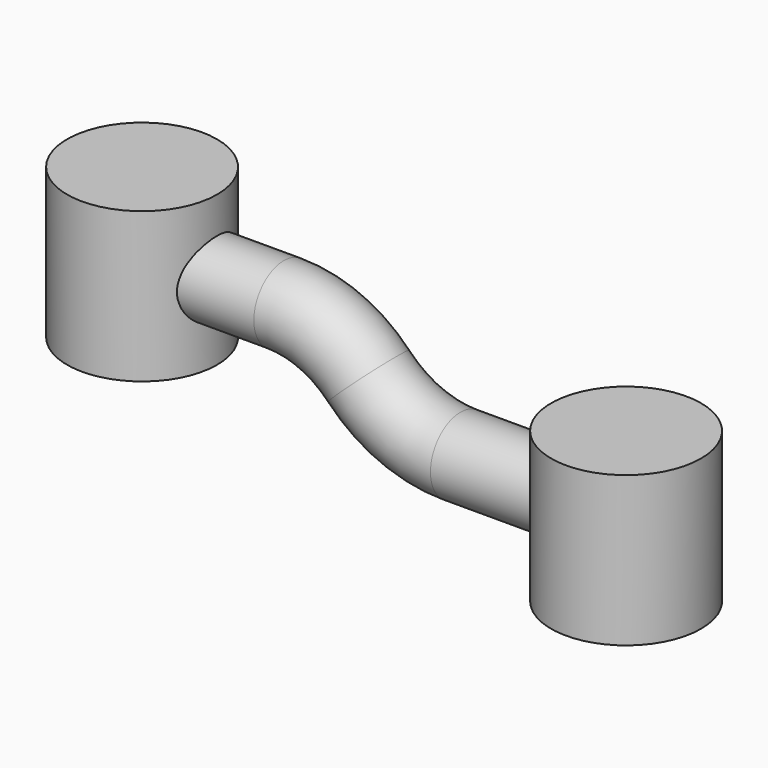
from build123d import *

# Parameters (mm, degrees)
F0_R     = 25.4
F1_DEPTH = 50.8
F2_DEPTH = 25.4
F4_R     = 12.7


with BuildPart() as f1:
    # F0 (on Top) → F1 (new body)
    with BuildSketch(Plane.XY):
        Circle(F0_R)
    extrude(amount=F1_DEPTH)


with BuildPart() as f2:
    # F0 (on Top) → F2 (new body, symmetric)
    with BuildSketch(Plane.XY):
        with Locations((164.0053569386, 0)):
            Circle(F0_R)
    extrude(amount=F2_DEPTH, both=True)


with BuildPart() as f5:
    # F5: sweep along a path in F3
    with BuildLine(Plane.XZ) as f5_path:
        Line((0, 25.7653268045), (48.0276979506, 25.7653268045))
        ThreePointArc((48.0276979506, 25.7653268045), (63.6812827633, 22.5387563608), (76.7830014229, 13.3850444099))
        ThreePointArc((76.7830014229, 13.3850444099), (90.9480326003, 3.4884332443), (107.8720349141, 0))
        Line((107.8720349141, 0), (164.0053569386, 0))
    # F4 (on Right) → F5 (sweep)
    with BuildSketch(Plane.YZ):
        with Locations((0, 25.7653268045)):
            Circle(F4_R)
    sweep(path=f5_path.line)


solid = Compound([f1.part, f2.part, f5.part])
